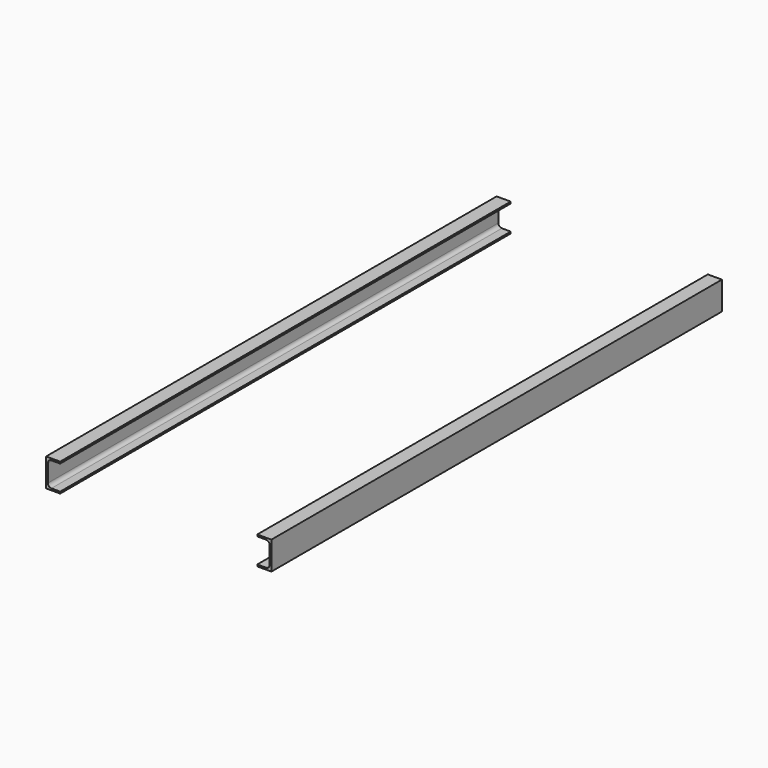
from build123d import *

# Parameters (mm, degrees)
F1_DEPTH = 1016


with BuildPart() as f1:
    # F0 (on Front) → F1 (new body)
    with BuildSketch(Plane.XZ):
        with BuildLine():
            Line((0, 50.8), (0, 0))
            Line((0, 0), (25.4, 0))
            Line((25.4, 0), (25.4, 3.175))
            Line((25.4, 3.175), (9.525, 3.175))
            ThreePointArc((9.525, 3.175), (5.034872, 5.034872), (3.175, 9.525))
            Line((3.175, 9.525), (3.175, 41.275))
            ThreePointArc((3.175, 41.275), (5.034872, 45.765128), (9.525, 47.625))
            Line((9.525, 47.625), (25.4, 47.625))
            Line((25.4, 47.625), (25.4, 50.8))
            Line((25.4, 50.8), (0, 50.8))
        make_face()
        with BuildLine():
            Line((381, 0), (406.4, 0))
            Line((406.4, 0), (406.4, 50.8))
            Line((406.4, 50.8), (381, 50.8))
            Line((381, 50.8), (381, 47.625))
            Line((381, 47.625), (396.875, 47.625))
            ThreePointArc((396.875, 47.625), (401.365128, 45.765128), (403.225, 41.275))
            Line((403.225, 41.275), (403.225, 9.525))
            ThreePointArc((403.225, 9.525), (401.365128, 5.034872), (396.875, 3.175))
            Line((396.875, 3.175), (381, 3.175))
            Line((381, 3.175), (381, 0))
        make_face()
    extrude(amount=F1_DEPTH)


solid = f1.part
